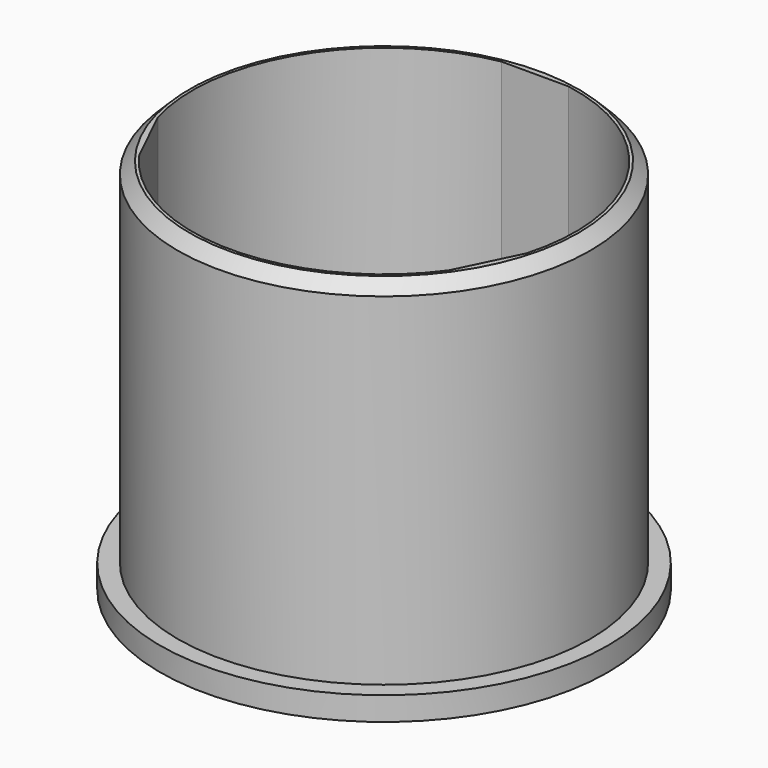
from build123d import *

# Parameters (mm, degrees)
F0_R     = 17.5
F1_DEPTH = 30
F2_R     = 19
F3_DEPTH = 2
F4_SIZE  = 1
F5_SIZE  = 1


with BuildPart() as f1:
    # F0 (on Top) → F1 (new body)
    with BuildSketch(Plane.XY):
        Circle(F0_R)
        with BuildLine():
            ThreePointArc((-15.627753, -4.453744), (-13.778547, 8.614764), (-2.839454, 16))
            Line((-2.839454, 16), (2.839454, 16))
            ThreePointArc((2.839454, 16), (13.778547, 8.614764), (15.627753, -4.453744))
            Line((15.627753, -4.453744), (13.140933, -9.559204))
            ThreePointArc((13.140933, -9.559204), (0, -16.25), (-13.140933, -9.559204))
            Line((-13.140933, -9.559204), (-15.627753, -4.453744))
        make_face(mode=Mode.SUBTRACT)
    extrude(amount=F1_DEPTH)

    # F2 (on face) → F3 (join)
    with BuildSketch(Plane(origin=(0, 0, 0), x_dir=(1, 0, 0), z_dir=(0, 0, -1))):
        Circle(F2_R)
        with BuildLine():
            Line((-15.627753, 4.453744), (-13.140933, 9.559204))
            ThreePointArc((-13.140933, 9.559204), (0, 16.25), (13.140933, 9.559204))
            Line((13.140933, 9.559204), (15.627753, 4.453744))
            ThreePointArc((15.627753, 4.453744), (13.778547, -8.614764), (2.839454, -16))
            Line((2.839454, -16), (-2.839454, -16))
            ThreePointArc((-2.839454, -16), (-13.778547, -8.614764), (-15.627753, 4.453744))
        make_face(mode=Mode.SUBTRACT)
    extrude(amount=F3_DEPTH)

    # F4
    f4_edges = [f1.edges().sort_by_distance(p)[0] for p in [
        (-17.5, 0, 30),
    ]]
    chamfer(f4_edges, length=F4_SIZE)

    # F5
    f5_edges = [f1.edges().sort_by_distance(p)[0] for p in [
        (0, -16.25, -2),
        (14.384343, -7.006474, -2),
        (13.778547, 8.614764, -2),
        (0, 16, -2),
        (-13.778547, 8.614764, -2),
        (-14.384343, -7.006474, -2),
    ]]
    chamfer(f5_edges, length=F5_SIZE)


solid = f1.part
